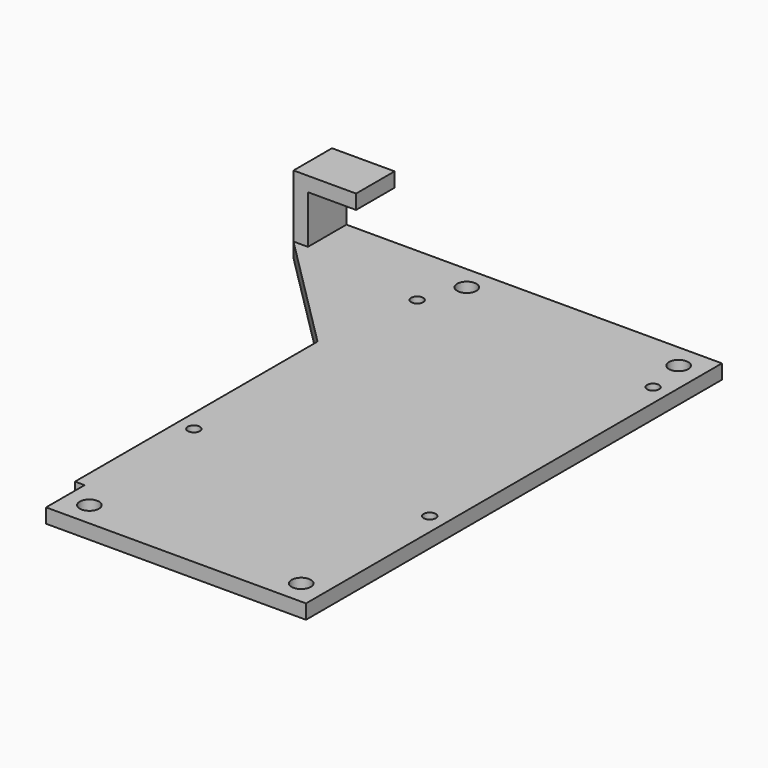
from build123d import *

# Parameters (mm, degrees)
BOX419_W          = 13
BOX419_H          = 10
BOX419_DEPTH      = 3
CYLINDER197_R     = 2
CYLINDER197_DEPTH = 20
CYLINDER199_R     = 2
CYLINDER199_DEPTH = 20
CYLINDER196_R     = 2
CYLINDER196_DEPTH = 20
CYLINDER198_R     = 2
CYLINDER198_DEPTH = 20
BOX365_W          = 3
BOX365_H          = 10
BOX365_DEPTH      = 13
BOX295_W          = 81
BOX295_H          = 10
BOX295_DEPTH      = 3
BOX366_W          = 25
BOX366_H          = 25
BOX366_DEPTH      = 3
CHAMFER024_SIZE   = 24.99
BOX293_W          = 54
BOX293_H          = 10
BOX293_DEPTH      = 3
CYLINDER065_R     = 1.25
CYLINDER065_DEPTH = 3
CYLINDER066_R     = 1.25
CYLINDER066_DEPTH = 3
CYLINDER067_R     = 1.25
CYLINDER067_DEPTH = 3
CYLINDER064_R     = 1.25
CYLINDER064_DEPTH = 3
BOX260_W          = 56
BOX260_H          = 88
BOX260_DEPTH      = 3


with BuildPart() as box419:
    # Box419 → Box419 (new body)
    with BuildSketch(Plane(origin=(-133, 66, 62), x_dir=(1, 0, 0), z_dir=(0, 0, 1))):
        with Locations((6.5, 5)):
            Rectangle(BOX419_W, BOX419_H)
    extrude(amount=BOX419_DEPTH)


with BuildPart() as cylinder197:
    # Cylinder197 → Cylinder197 (new body)
    with BuildSketch(Plane(origin=(-101, 71, 32), x_dir=(1, 0, 0), z_dir=(0, 0, 1))):
        Circle(CYLINDER197_R)
    extrude(amount=CYLINDER197_DEPTH)


with BuildPart() as cylinder199:
    # Cylinder199 → Cylinder199 (new body)
    with BuildSketch(Plane(origin=(-101, -27, 32), x_dir=(1, 0, 0), z_dir=(0, 0, 1))):
        Circle(CYLINDER199_R)
    extrude(amount=CYLINDER199_DEPTH)


with BuildPart() as cylinder196:
    # Cylinder196 → Cylinder196 (new body)
    with BuildSketch(Plane(origin=(-57, -27, 32), x_dir=(1, 0, 0), z_dir=(0, 0, 1))):
        Circle(CYLINDER196_R)
    extrude(amount=CYLINDER196_DEPTH)


with BuildPart() as fusion196:
    # Cylinder198 → Cylinder198 (new body)
    with BuildSketch(Plane(origin=(-57, 71, 32), x_dir=(1, 0, 0), z_dir=(0, 0, 1))):
        Circle(CYLINDER198_R)
    extrude(amount=CYLINDER198_DEPTH)

    # Fusion196: union Cylinder197, Cylinder199, Cylinder196
    add(cylinder197.part)
    add(cylinder199.part)
    add(cylinder196.part)


with BuildPart() as box365:
    # Box365 → Box365 (new body)
    with BuildSketch(Plane(origin=(-133, 66, 49), x_dir=(1, 0, 0), z_dir=(0, 0, 1))):
        with Locations((1.5, 5)):
            Rectangle(BOX365_W, BOX365_H)
    extrude(amount=BOX365_DEPTH)


with BuildPart() as box295:
    # Box295 → Box295 (new body)
    with BuildSketch(Plane(origin=(-133, 66, 49), x_dir=(1, 0, 0), z_dir=(0, 0, 1))):
        with Locations((40.5, 5)):
            Rectangle(BOX295_W, BOX295_H)
    extrude(amount=BOX295_DEPTH)


with BuildPart() as chamfer024:
    # Box366 → Box366 (new body)
    with BuildSketch(Plane(origin=(-133, 41, 49), x_dir=(1, 0, 0), z_dir=(0, 0, 1))):
        with Locations((12.5, 12.5)):
            Rectangle(BOX366_W, BOX366_H)
    extrude(amount=BOX366_DEPTH)

    # Chamfer024
    chamfer024_edges = [chamfer024.edges().sort_by_distance(p)[0] for p in [
        (-133, 41, 50.5),
    ]]
    chamfer(chamfer024_edges, length=CHAMFER024_SIZE)


with BuildPart() as box293:
    # Box293 → Box293 (new body)
    with BuildSketch(Plane(origin=(-106, -32, 49), x_dir=(1, 0, 0), z_dir=(0, 0, 1))):
        with Locations((27, 5)):
            Rectangle(BOX293_W, BOX293_H)
    extrude(amount=BOX293_DEPTH)


with BuildPart() as cylinder065:
    # Cylinder065 → Cylinder065 (new body)
    with BuildSketch(Plane(origin=(-51.5, 62.5, 37), x_dir=(1, 0, 0), z_dir=(0, 0, 1))):
        Circle(CYLINDER065_R)
    extrude(amount=CYLINDER065_DEPTH)


with BuildPart() as cylinder066:
    # Cylinder066 → Cylinder066 (new body)
    with BuildSketch(Plane(origin=(-51.5, 4.5, 37), x_dir=(1, 0, 0), z_dir=(0, 0, 1))):
        Circle(CYLINDER066_R)
    extrude(amount=CYLINDER066_DEPTH)


with BuildPart() as cylinder067:
    # Cylinder067 → Cylinder067 (new body)
    with BuildSketch(Plane(origin=(-100.5, 4.5, 37), x_dir=(1, 0, 0), z_dir=(0, 0, 1))):
        Circle(CYLINDER067_R)
    extrude(amount=CYLINDER067_DEPTH)


with BuildPart() as fusion193:
    # Cylinder064 → Cylinder064 (new body)
    with BuildSketch(Plane(origin=(-100.5, 62.5, 37), x_dir=(1, 0, 0), z_dir=(0, 0, 1))):
        Circle(CYLINDER064_R)
    extrude(amount=CYLINDER064_DEPTH)

    # Fusion193: union Cylinder065, Cylinder066, Cylinder067
    add(cylinder065.part)
    add(cylinder066.part)
    add(cylinder067.part)


with BuildPart() as fusion262:
    # Box260 → Box260 (new body)
    with BuildSketch(Plane(origin=(-104, -22, 37), x_dir=(1, 0, 0), z_dir=(0, 0, 1))):
        with Locations((28, 44)):
            Rectangle(BOX260_W, BOX260_H)
    extrude(amount=BOX260_DEPTH)

    # Cut251: cut Fusion193
    add(fusion193.part, mode=Mode.SUBTRACT)


with BuildPart() as fusion262_1:
    # Cut251 placement: moved
    add(fusion262.part.moved(Location((-4, 0, 12))))

    # Fusion194: union Box295, Chamfer024, Box293
    add(box295.part)
    add(chamfer024.part)
    add(box293.part)

    # Fusion195: union Box365
    add(box365.part)

    # Cut252: cut Fusion196
    add(fusion196.part, mode=Mode.SUBTRACT)

    # Fusion262: union Box419
    add(box419.part)


solid = fusion262_1.part
